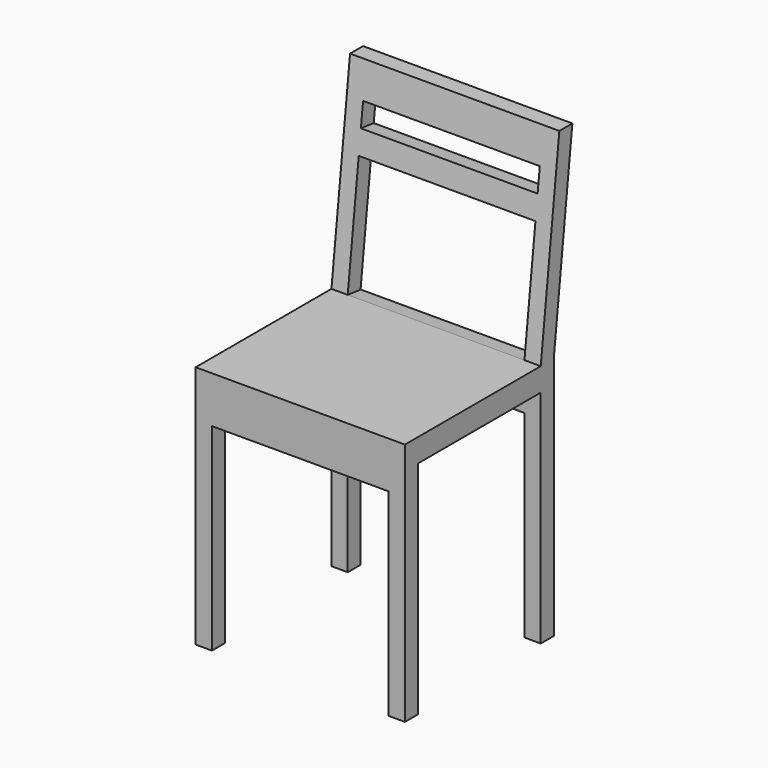
from build123d import *

# Parameters (mm, degrees)
F0_W     = 450
F0_H     = 450
F1_DEPTH = 950
F2_W     = 11.309118
F2_H     = 7.539391
F2_W_2   = 330
F2_H_2   = 475
F2_W_3   = 50
F2_H_3   = 50
F3_DEPTH = 450.001
F4_W     = 380
F4_H     = 425
F5_DEPTH = 450.001
F6_W     = 380
F6_H     = 50
F6_H_2   = 252.931069
F7_DEPTH = 145.760456


with BuildPart() as f1:
    # F0 (on Top) → F1 (new body)
    with BuildSketch(Plane.XY):
        Rectangle(F0_W, F0_H)
    extrude(amount=F1_DEPTH)

    # F2 (on face) → F3 (cut, through all)
    with BuildSketch(Plane.YZ.offset(225)):
        with Locations((305.345878, 508.181929)):
            Rectangle(F2_W, F2_H)
        Polygon((-225, 950), (-225, 525), (140, 525), (190, 950), align=None)
        with Locations((-25, 237.5)):
            Rectangle(F2_W_2, F2_H_2)
        with Locations((200, 237.5)):
            Rectangle(F2_W_3, F2_H_2)
        Polygon((225, 950), (175, 525), (225, 525), align=None)
        with Locations((200, 500)):
            Rectangle(F2_W_3, F2_H_3)
    extrude(amount=-F3_DEPTH, mode=Mode.SUBTRACT)

    # F4 (on face) → F5 (cut, through all)
    with BuildSketch(Plane.XZ.offset(225)):
        with Locations((0, 212.5)):
            Rectangle(F4_W, F4_H)
    extrude(amount=-F5_DEPTH, mode=Mode.SUBTRACT)

    # F6 (on face) → F7 (cut, through all)
    with BuildSketch(Plane(origin=(0, 77.167235, -9.078498), x_dir=(1, 0, 0), z_dir=(0, -0.993151, 0.116841))):
        with Locations((0, 865.692911)):
            Rectangle(F6_W, F6_H)
        with Locations((0, 664.227376)):
            Rectangle(F6_W, F6_H_2)
    extrude(amount=-F7_DEPTH, mode=Mode.SUBTRACT)


solid = f1.part
